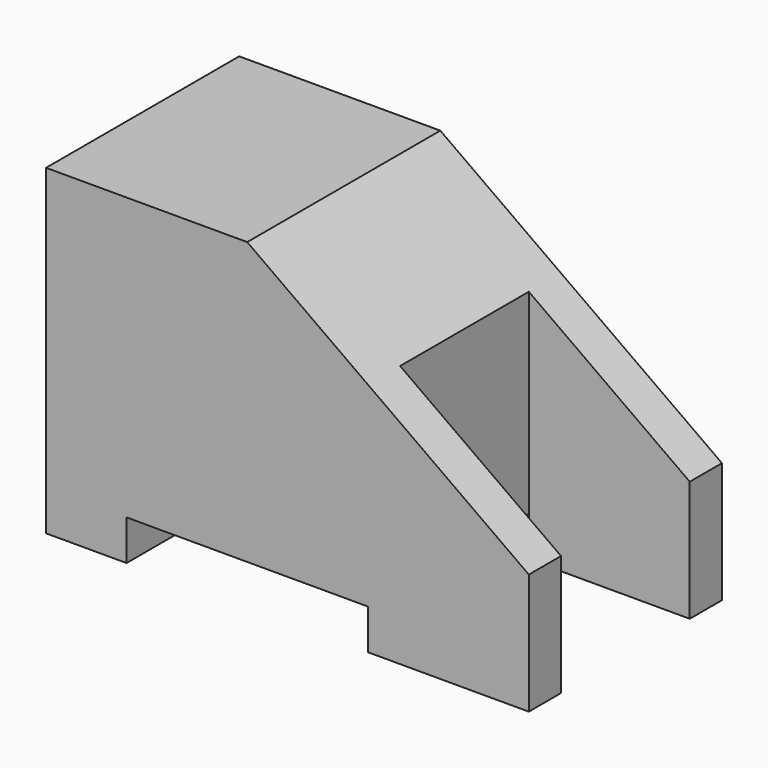
from build123d import *

# Parameters (mm, degrees)
F1_DEPTH = 7.5
F2_W     = 10
F2_H     = 10
F3_DEPTH = 20.001


with BuildPart() as f1:
    # F0 (on Front) → F1 (new body, symmetric)
    with BuildSketch(Plane.XZ):
        Polygon((0, 20), (0, 0), (5, 0), (5, 2.5), (20, 2.5), (20, 0), (30, 0), (30, 7.5), (12.5, 20), align=None)
    extrude(amount=F1_DEPTH, both=True)

    # F2 (on face) → F3 (cut, through all)
    with BuildSketch(Plane.XY.offset(20)):
        with Locations((25, 0)):
            Rectangle(F2_W, F2_H)
    extrude(amount=-F3_DEPTH, mode=Mode.SUBTRACT)


solid = f1.part
